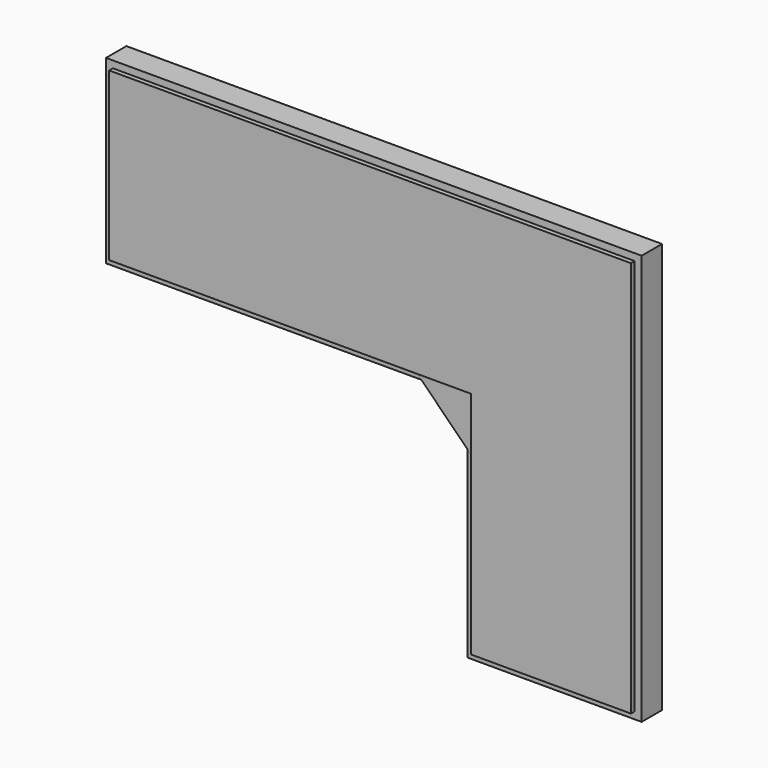
from build123d import *

# Parameters (mm, degrees)
F0_W      = 152.4
F0_H      = 38.1
F1_DEPTH  = 139.7
F2_W      = 38.1
F2_H      = 914.4
F3_DEPTH  = 139.7
F4_W      = 1828.8
F4_H      = 38.1
F5_DEPTH  = 139.7
F6_W      = 38.1
F6_H      = 1257.3
F6_H_2    = 1219.2
F7_DEPTH  = 139.7
F9_DEPTH  = 25.4
F11_START = 254
F11_DEPTH = 406.4
F13_DEPTH = 228.6
F15_DEPTH = 50.8
F18_DEPTH = 228.6
F19_DEPTH = 228.6
F21_DEPTH = 292.1
F22_R     = 50.8
F23_DEPTH = 25.4
F24_R     = 38.1
F25_DEPTH = 25.4


with BuildPart() as f1:
    # F0 (on Front) → F1 (new body)
    with BuildSketch(Plane.XZ):
        with Locations((76.2, -933.45)):
            Rectangle(F0_W, F0_H)
        Polygon((0, -914.4), (0, 0), (0, 38.1), (-38.1, 38.1), (-38.1, -952.5), (0, -952.5), align=None)
        with Locations((76.2, 19.05)):
            Rectangle(F0_W, F0_H)
    extrude(amount=-F1_DEPTH)

    # F2 (on face) → F3 (join)
    with BuildSketch(Plane.XZ):
        with Locations((2876.55, -457.2)):
            Rectangle(F2_W, F2_H)
        Polygon((2895.6, 38.1), (152.4, 38.1), (152.4, 0), (2857.5, 0), (2895.6, 0), align=None)
    extrude(amount=-F3_DEPTH)

    # F4 (on face) → F5 (join)
    with BuildSketch(Plane.XZ):
        with Locations((1066.8, -933.45)):
            Rectangle(F4_W, F4_H)
    extrude(amount=-F5_DEPTH)

    # F6 (on face) → F7 (join)
    with BuildSketch(Plane.XZ):
        with Locations((2876.55, -1543.05)):
            Rectangle(F6_W, F6_H)
        Polygon((2857.5, -2171.7), (1981.2, -2171.7), (1943.1, -2171.7), (1943.1, -2209.8), (2895.6, -2209.8), (2895.6, -2171.7), align=None)
        with Locations((1962.15, -1562.1)):
            Rectangle(F6_W, F6_H_2)
    extrude(amount=-F7_DEPTH)


with BuildPart() as f9:
    # F8 (on face) → F9 (new body)
    with BuildSketch(Plane.XZ):
        Polygon((0, -914.4), (1981.2, -914.4), (1981.2, -2171.7), (2857.5, -2171.7), (2857.5, 0), (0, 0), align=None)
    extrude(amount=F9_DEPTH)

    # F10 (on face) → F11 (join)
    with BuildSketch(Plane.XY.offset(-914.4).offset(F11_START)):
        Polygon((1193.8, 228.6), (685.8, 0), (990.6, 0), (1193.8, 0), align=None)
    extrude(amount=F11_DEPTH)

    # F12 (on face) → F13 (join)
    with BuildSketch(Plane(origin=(0, 0, 0), x_dir=(-1, 0, 0), z_dir=(0, 1, 0))):
        Polygon((-1320.8, -660.4), (-1193.8, -660.4), (-1193.8, -254), (-1397, -254), (-1397, -660.4), align=None)
    extrude(amount=F13_DEPTH)

    # F14 (on face) → F15 (join)
    with BuildSketch(Plane(origin=(0, 228.6, 0), x_dir=(-1, 0, 0), z_dir=(0, 1, 0))):
        with BuildLine():
            ThreePointArc((-1346.2, -457.2), (-1295.4, -508), (-1244.6, -457.2))
            Line((-1244.6, -457.2), (-1346.2, -457.2))
        make_face()
        with BuildLine():
            Line((-1346.2, -457.2), (-1244.6, -457.2))
            ThreePointArc((-1244.6, -457.2), (-1295.4, -406.4), (-1346.2, -457.2))
        make_face()
    extrude(amount=F15_DEPTH)

    # F16 (on face) → F18 (join)
    with BuildSketch(Plane(origin=(0, 0, 0), x_dir=(-1, 0, 0), z_dir=(0, 1, 0))):
        Polygon((-1600.2, -457.2), (-1397, -660.4), (-1397, -457.2), align=None)
    extrude(amount=F18_DEPTH)

    # F17 (on face) → F19 (join)
    with BuildSketch(Plane(origin=(0, 0, 0), x_dir=(-1, 0, 0), z_dir=(0, 1, 0))):
        Polygon((-1600.2, -457.2), (-1600.2, -660.4), (-1600.2, -863.6), (-1397, -660.4), align=None)
    extrude(amount=F19_DEPTH)

    # F22 (on face) → F23 (join)
    with BuildSketch(Plane(origin=(0, 0, 0), x_dir=(-1, 0, 0), z_dir=(0, 1, 0))):
        with Locations((-2652.4951457977, -1711.6765975952)):
            Circle(F22_R)
    extrude(amount=F23_DEPTH)

    # F24 (on face) → F25 (join)
    with BuildSketch(Plane(origin=(0, 0, 0), x_dir=(-1, 0, 0), z_dir=(0, 1, 0))):
        with Locations((-220.8253741264, -444.0276622772)):
            Circle(F24_R)
    extrude(amount=F25_DEPTH)


with BuildPart() as f21:
    # F20 (on face) → F21 (new body)
    with BuildSketch(Plane(origin=(368.3, 0, 368.3), x_dir=(0, -1, 0), z_dir=(-0.7071067812, 0, -0.7071067812))):
        Polygon((0, -2923.3458042145), (0, -1742.1696874874), (0, -1454.8014916132), (-228.6, -1454.8014916132), align=None)
    extrude(amount=-F21_DEPTH)


solid = Compound([f1.part, f9.part, f21.part])
